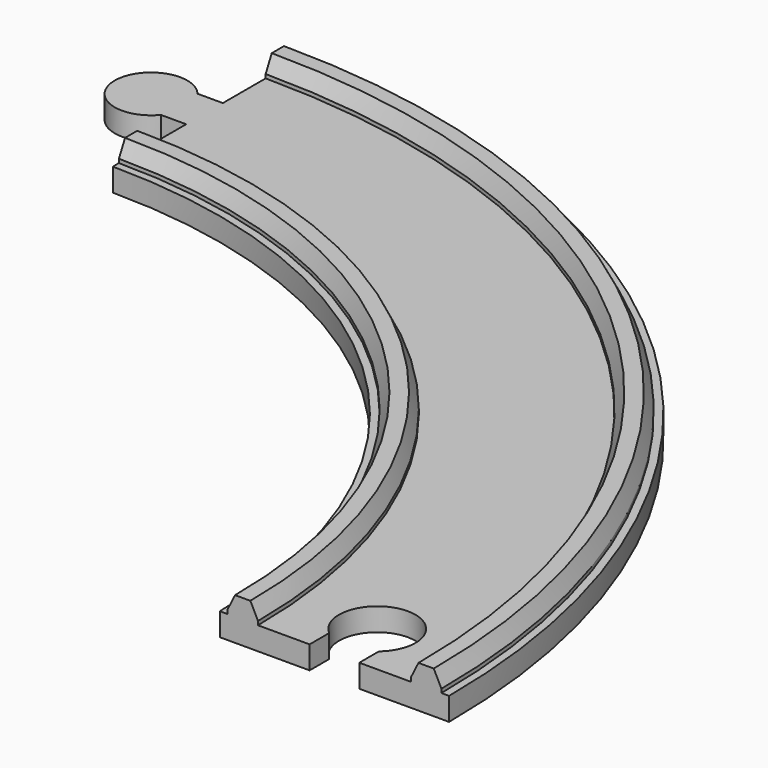
from build123d import *

# Parameters (mm, degrees)
F1_ANGLE = 90
F3_DEPTH = 25
F5_DEPTH = 3


with BuildPart() as f1:
    # F0 (on Front) → F1 (revolve)
    with BuildSketch(Plane.XZ):
        Polygon((52.5206645727, 17.0954047681), (52.5206645727, 14.0954047681), (82.5206645727, 14.0954047681), (82.5206645727, 17.0954047681), (81.5206645727, 17.0954047681), (77.5206645727, 17.0954047681), (57.5206645727, 17.0954047681), (53.5206645727, 17.0954047681), align=None)
        Polygon((77.5206645727, 17.0954047681), (81.5206645727, 17.0954047681), (81.5206645727, 17.5954047681), (80.5206645727, 19.5954047681), (78.5206645727, 19.5954047681), (77.5206645727, 17.5954047681), align=None)
        Polygon((53.5206645727, 17.5954047681), (53.5206645727, 17.0954047681), (57.5206645727, 17.0954047681), (57.5206645727, 17.5954047681), (56.5206645727, 19.5954047681), (54.5206645727, 19.5954047681), align=None)
    revolve(axis=Axis((-17.4793354273, 0, 16.5954047681), (0, 0, 1)), revolution_arc=F1_ANGLE)

    # F2 (on face) → F3 (cut)
    with BuildSketch(Plane(origin=(0, 0, 14.0954047681), x_dir=(1, 0, 0), z_dir=(0, 0, -1))):
        with BuildLine():
            ThreePointArc((70.7706645727, -3.2003289616), (69.2529527716, -2.3096719096), (67.5206645727, -2))
            ThreePointArc((67.5206645727, -2), (65.7883763738, -2.3096719096), (64.2706645727, -3.2003289616))
            ThreePointArc((64.2706645727, -3.2003289616), (65.4290145064, -11.5414755311), (72.5206645727, -7))
            ThreePointArc((72.5206645727, -7), (72.0621401039, -4.9083499337), (70.7706645727, -3.2003289616))
        make_face()
        with BuildLine():
            Line((67.5206645727, -2), (67.5206645727, 0))
            Line((67.5206645727, 0), (64.2706645727, 0))
            Line((64.2706645727, 0), (64.2706645727, -3.2003289616))
            ThreePointArc((64.2706645727, -3.2003289616), (65.7883763738, -2.3096719096), (67.5206645727, -2))
        make_face()
        with BuildLine():
            Line((70.7706645727, 0), (67.5206645727, 0))
            Line((67.5206645727, 0), (67.5206645727, -2))
            ThreePointArc((67.5206645727, -2), (69.2529527716, -2.3096719096), (70.7706645727, -3.2003289616))
            Line((70.7706645727, -3.2003289616), (70.7706645727, 0))
        make_face()
    extrude(amount=-F3_DEPTH, mode=Mode.SUBTRACT)

    # F4 (on face) → F5 (join)
    with BuildSketch(Plane(origin=(0, 0, 14.0954047681), x_dir=(1, 0, 0), z_dir=(0, 0, -1))):
        with BuildLine():
            Line((-17.4793354273, -88), (-17.4793354273, -85))
            Line((-17.4793354273, -85), (-19.7293354273, -85))
            ThreePointArc((-19.7293354273, -85), (-20.0040998281, -86.5920949505), (-20.7966054616, -88))
            Line((-20.7966054616, -88), (-17.4793354273, -88))
        make_face()
        with BuildLine():
            Line((-19.7293354273, -85), (-17.4793354273, -85))
            Line((-17.4793354273, -85), (-17.4793354273, -82))
            Line((-17.4793354273, -82), (-20.7966054616, -82))
            ThreePointArc((-20.7966054616, -82), (-20.0040998281, -83.4079050495), (-19.7293354273, -85))
        make_face()
        with BuildLine():
            ThreePointArc((-20.7966054616, -88), (-20.0040998281, -86.5920949505), (-19.7293354273, -85))
            ThreePointArc((-19.7293354273, -85), (-20.0040998281, -83.4079050495), (-20.7966054616, -82))
            ThreePointArc((-20.7966054616, -82), (-29.2293354273, -85), (-20.7966054616, -88))
        make_face()
    extrude(amount=-F5_DEPTH)


solid = f1.part
